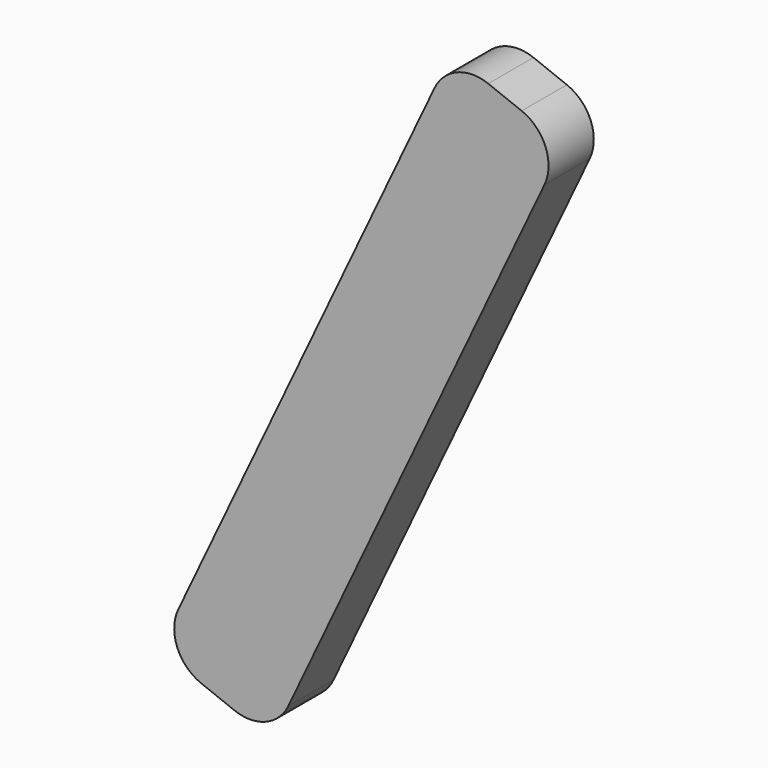
from build123d import *

# Parameters (mm, degrees)
PAD021_DEPTH = 4
FILLET017_R  = 3


with BuildPart() as fillet017:
    # Sketch025 → Pad021 (new body)
    with BuildSketch(Plane.XZ.offset(15)):
        Polygon((-5.834702, 2.479193), (2.126768, 5.596979), (22.829249, -38.220491), (14.867778, -41.338277), align=None)
    extrude(amount=PAD021_DEPTH)

    # Fillet017
    fillet017_edges = [fillet017.edges().sort_by_distance(p)[0] for p in [
        (-5.834702, -17, 2.479193),
        (2.126768, -17, 5.596979),
        (22.829249, -17, -38.220491),
        (14.867778, -17, -41.338277),
    ]]
    fillet(fillet017_edges, radius=FILLET017_R)


with BuildPart() as part_mirroring013:
    # Part__Mirroring013: instance of Fillet017
    add(fillet017.part.mirror(Plane(origin=(0, 0, 0), x_dir=(0, -1, 0), z_dir=(1, 0, 0))))


with BuildPart() as part_mirroring013_1:
    # Part__Mirroring013 placement: moved
    add(part_mirroring013.part.moved(Location((76, 0, 0))))


solid = part_mirroring013_1.part
